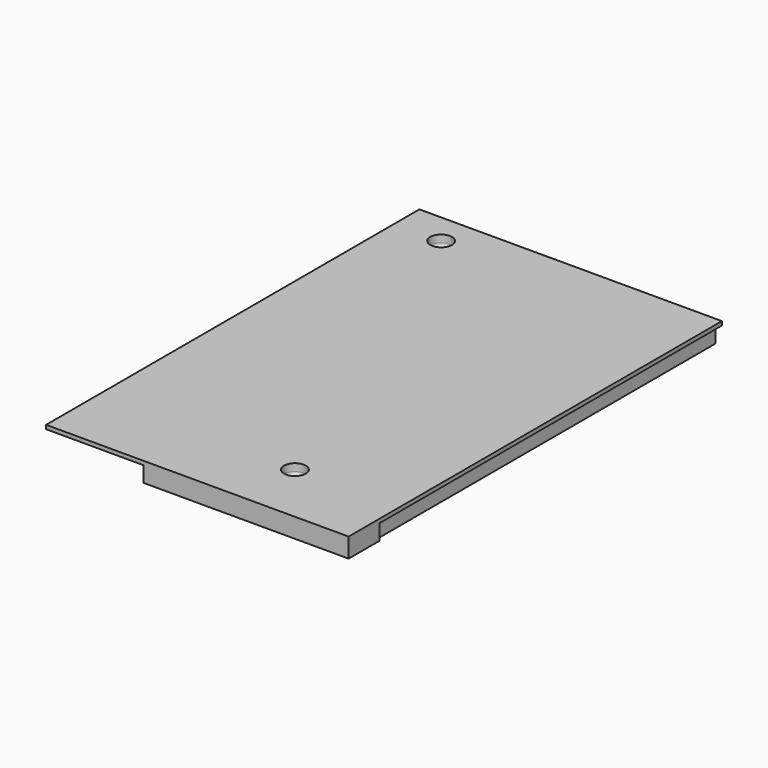
from build123d import *

# Parameters (mm, degrees)
F0_W      = 98.806
F0_H      = 152.4
F1_DEPTH  = 1.27
F3_DEPTH  = 6.35
F4_R      = 4.445
F5_DEPTH  = 15.24
F6_R      = 2.032
F7_DEPTH  = 16.51
F8_R      = 3.556
F9_DEPTH  = 3.81
F11_DEPTH = 6.35
F12_W     = 1.27
F12_H     = 3.556
F13_DEPTH = 30.988
F14_R     = 1.397


with BuildPart() as f1:
    # F0 (on Top) → F1 (new body)
    with BuildSketch(Plane.XY):
        Rectangle(F0_W, F0_H)
    extrude(amount=F1_DEPTH)

    # F2 (on face) → F3 (join)
    with BuildSketch(Plane.XY.offset(1.27)):
        Polygon((-17.653, -73.66), (-17.653, -76.2), (49.403, -76.2), (49.403, -63.5), (48.26, -63.5), (48.26, 75.057), (16.637, 75.057), (16.637, 70.993), (15.494, 70.993), (15.494, 76.2), (-15.494, 76.2), (-15.494, 70.993), (-16.637, 70.993), (-16.637, 75.057), (-48.26, 75.057), (-48.26, -62.23), (-47.117, -62.23), (-47.117, 73.914), (-17.78, 73.914), (-17.78, 69.85), (17.78, 69.85), (17.78, 73.914), (47.117, 73.914), (47.117, -73.66), align=None)
    extrude(amount=-F3_DEPTH)

    # F4 (on face) → F5 (join)
    with BuildSketch(Plane(origin=(0, 0, 0), x_dir=(1, 0, 0), z_dir=(0, 0, -1))):
        with Locations((15.621, 55.88)):
            Circle(F4_R)
        with Locations((-34.163, -66.04)):
            Circle(F4_R)
    extrude(amount=F5_DEPTH)

    # F6 (on face) → F7 (cut, through all)
    with BuildSketch(Plane(origin=(0, 0, -15.24), x_dir=(1, 0, 0), z_dir=(0, 0, -1))):
        with Locations((-34.163, -66.04)):
            Circle(F6_R)
        with Locations((15.621, 55.88)):
            Circle(F6_R)
    extrude(amount=-F7_DEPTH, mode=Mode.SUBTRACT)

    # F8 (on face) → F9 (cut)
    with BuildSketch(Plane.XY.offset(1.27)):
        with Locations((15.621, -55.88)):
            Circle(F8_R)
        with Locations((-34.163, 66.04)):
            Circle(F8_R)
    extrude(amount=-F9_DEPTH, mode=Mode.SUBTRACT)

    # F10 (on face) → F11 (join, through all)
    with BuildSketch(Plane(origin=(0, 76.2, 0), x_dir=(-1, 0, 0), z_dir=(0, 1, 0))):
        Polygon((15.494, -5.08), (-15.494, -5.08), (-15.494, -10.16), (-9.144, -7.62), (9.144, -7.62), (15.494, -10.16), align=None)
    extrude(amount=-F11_DEPTH)

    # F12 (on face) → F13 (cut, through all)
    with BuildSketch(Plane(origin=(-15.494, 0, 0), x_dir=(0, -1, 0), z_dir=(-1, 0, 0))):
        with Locations((-73.533, -8.382)):
            Rectangle(F12_W, F12_H)
    extrude(amount=-F13_DEPTH, mode=Mode.SUBTRACT)

    # F14
    f14_edges = [f1.edges().sort_by_distance(p)[0] for p in [
        (12.065, -55.88, -2.54),
        (-37.719, 66.04, -2.54),
    ]]
    fillet(f14_edges, radius=F14_R)


solid = f1.part
